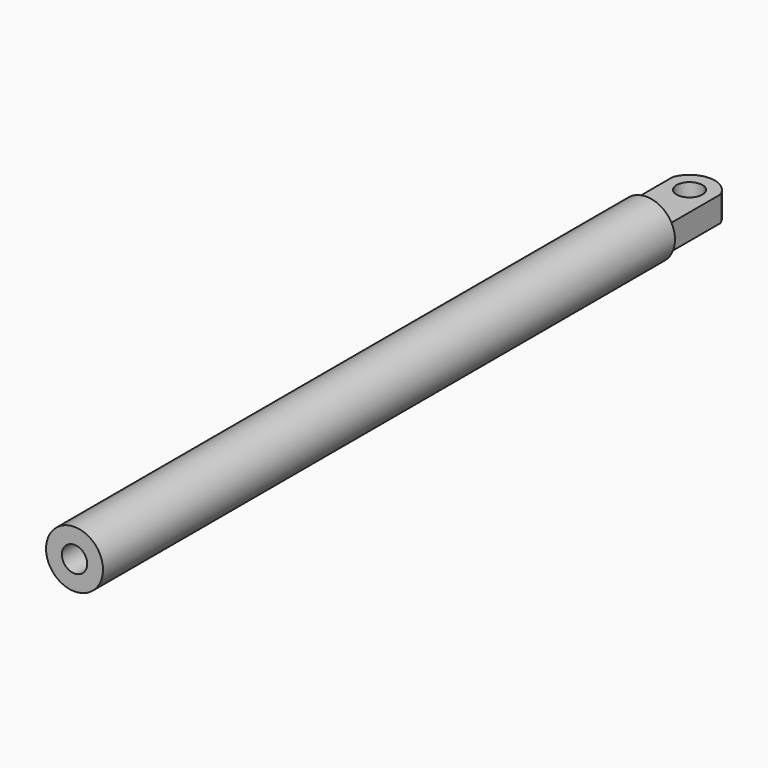
from build123d import *

# Parameters (mm, degrees)
SKETCH_R        = 9
PAD_DEPTH       = 226
SKETCH001_W     = 15
SKETCH001_H     = 8
PAD001_DEPTH    = 25
SKETCH002_R     = 4.1
POCKET_DEPTH    = 13.001
SKETCH003_R     = 4
POCKET001_DEPTH = 185


with BuildPart() as part:
    # Sketch → Pad (new body)
    with BuildSketch(Plane.XZ):
        Circle(SKETCH_R)
    extrude(amount=PAD_DEPTH)

    # Sketch001 (on Face2 of Pad) → Pad001 (join)
    with BuildSketch(Plane(origin=(0, 0, 0), x_dir=(1, 0, 0), z_dir=(0, 1, 0))):
        Rectangle(SKETCH001_W, SKETCH001_H)
    extrude(amount=PAD001_DEPTH)

    # Sketch002 (on Face6 of Pad001) → Pocket (cut, through all)
    with BuildSketch(Plane(origin=(0, 0, 4), x_dir=(-1, 0, 0), z_dir=(0, 0, 1))):
        with Locations((0, -17)):
            Circle(SKETCH002_R)
        with BuildLine():
            ThreePointArc((-8, -17), (0, -25), (8, -17))
            Line((8, -26), (8, -17))
            Line((-8, -26), (8, -26))
            Line((-8, -17), (-8, -26))
        make_face()
    extrude(amount=-POCKET_DEPTH, mode=Mode.SUBTRACT)

    # Sketch003 (on Face3 of Pocket) → Pocket001 (cut)
    with BuildSketch(Plane.XZ.offset(226)):
        Circle(SKETCH003_R)
    extrude(amount=-POCKET001_DEPTH, mode=Mode.SUBTRACT)


solid = part.part
